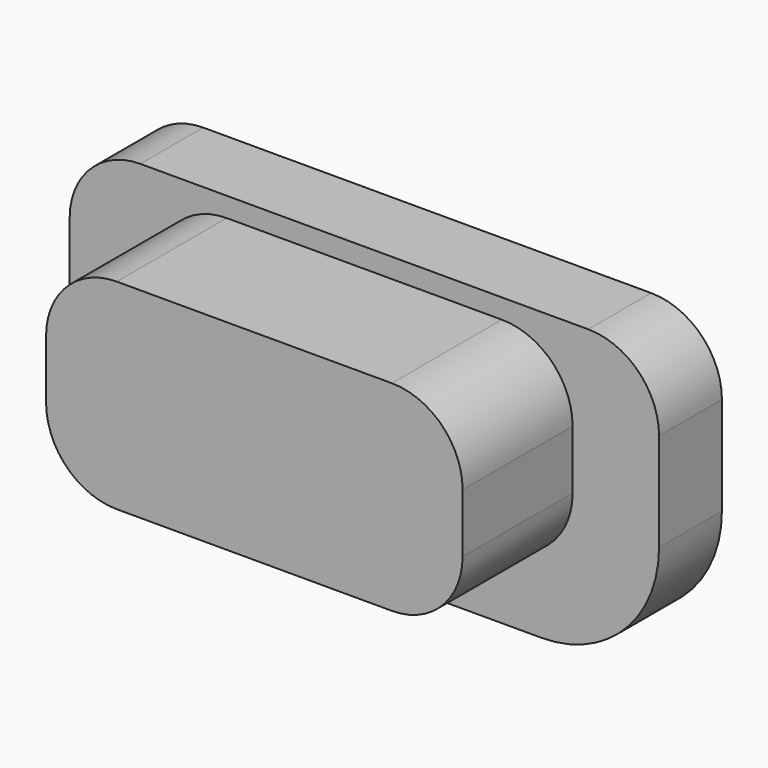
from build123d import *

# Parameters (mm, degrees)
EXTRUDE017_DEPTH = 1
EXTRUDE016_DEPTH = 2.25


with BuildPart() as extrude017:
    # Sketch017 → Extrude017 (new body)
    with BuildSketch(Plane.XZ):
        with BuildLine():
            ThreePointArc((11.7, 16.35), (11.063604, 16.086396), (10.8, 15.45))
            Line((10.8, 14.2), (10.8, 15.45))
            ThreePointArc((10.8, 14.2), (11.23934, 13.13934), (12.3, 12.7))
            Line((16.8, 12.7), (12.3, 12.7))
            ThreePointArc((16.8, 12.7), (17.86066, 13.13934), (18.3, 14.2))
            Line((18.3, 15.45), (18.3, 14.2))
            ThreePointArc((18.3, 15.45), (18.036396, 16.086396), (17.4, 16.35))
            Line((11.7, 16.35), (17.4, 16.35))
        make_face()
    extrude(amount=EXTRUDE017_DEPTH)


with BuildPart() as extrude017_1:
    # Extrude017 placement: moved
    add(extrude017.part.moved(Location((0, 2.5, 0))))


with BuildPart() as button002:
    # Sketch016 → Extrude016 (new body)
    with BuildSketch(Plane.XZ):
        with BuildLine():
            ThreePointArc((12.8, 16.1), (12.163604, 15.836396), (11.9, 15.2))
            Line((11.9, 14.45), (11.9, 15.2))
            ThreePointArc((11.9, 14.45), (12.163604, 13.813604), (12.8, 13.55))
            Line((16.3, 13.55), (12.8, 13.55))
            ThreePointArc((16.3, 13.55), (16.936396, 13.813604), (17.2, 14.45))
            Line((17.2, 15.2), (17.2, 14.45))
            ThreePointArc((17.2, 15.2), (16.936396, 15.836396), (16.3, 16.1))
            Line((12.8, 16.1), (16.3, 16.1))
        make_face()
    extrude(amount=EXTRUDE016_DEPTH)


with BuildPart() as button002_1:
    # Extrude016 placement: moved
    add(button002.part.moved(Location((0, 2, 0))))

    # Fusion021: union Extrude017
    add(extrude017_1.part)


with BuildPart() as button002_2:
    # Fusion021 placement: moved
    add(button002_1.part.moved(Location((32.5, 0, 0))))


solid = button002_2.part
